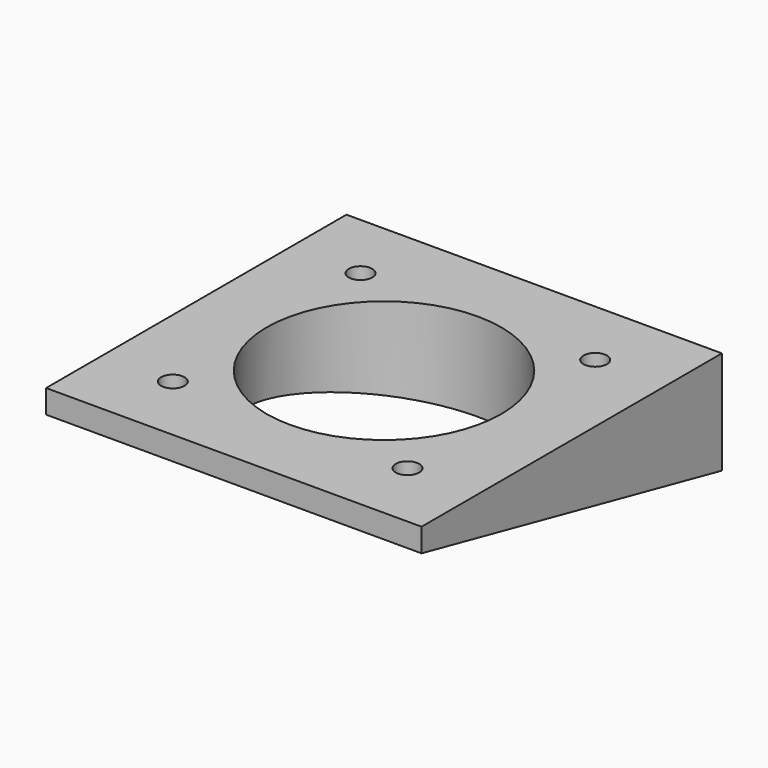
from build123d import *

# Parameters (mm, degrees)
F2_DEPTH      = 50.8
F2_DEPTH_BACK = 50.8
F3_D          = 6.35
F5_D          = 63.5


with BuildPart() as f2:
    # F1 (on Right) → F2 (new body, two sides)
    with BuildSketch(Plane.YZ) as f2_sk:
        Polygon((50.8, 0), (-50.8, 0), (-50.8, -6.35), (50.8, -27.945747), align=None)
    extrude(amount=F2_DEPTH)
    extrude(f2_sk.sketch, amount=-F2_DEPTH_BACK)

    # F3 (through all)
    with Locations(Plane.XY):
        with Locations((-31.75, 31.75), (31.75, 31.75), (31.75, -31.75), (-31.75, -31.75)):
            Hole(F3_D / 2)

    # F5 (through all)
    with Locations(Plane.XY):
        with Locations((0, 0)):
            Hole(F5_D / 2)


solid = f2.part
